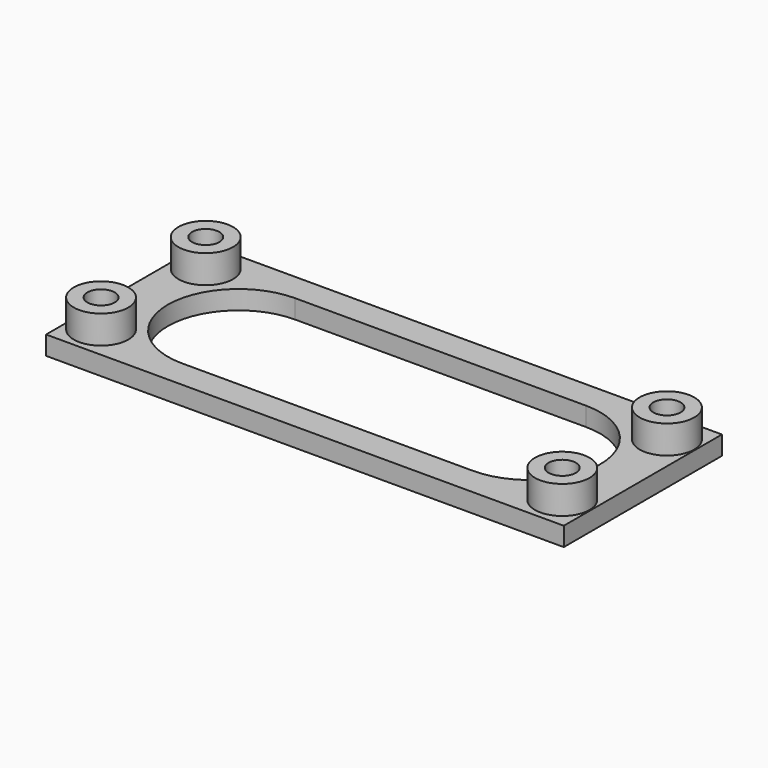
from build123d import *

# Parameters (mm, degrees)
SKETCH_W        = 55
SKETCH_H        = 21
PAD_DEPTH       = 2
SKETCH001_R     = 1.45
POCKET_DEPTH    = 2.001
SKETCH002_R     = 2.9
SKETCH002_R_2   = 1.45
PAD001_DEPTH    = 3
POCKET001_DEPTH = 2.001


with BuildPart() as part:
    # Sketch → Pad (new body)
    with BuildSketch(Plane.XY):
        Rectangle(SKETCH_W, SKETCH_H)
    extrude(amount=PAD_DEPTH)

    # Sketch001 (on Face6 of Pad) → Pocket (cut, through all)
    with BuildSketch(Plane.XY.offset(2)):
        with Locations((-24.5, 6.95)):
            Circle(SKETCH001_R)
        with Locations((24.5, 6.95)):
            Circle(SKETCH001_R)
        with Locations((24.5, -6.95)):
            Circle(SKETCH001_R)
        with Locations((-24.5, -6.95)):
            Circle(SKETCH001_R)
    extrude(amount=-POCKET_DEPTH, mode=Mode.SUBTRACT)

    # Sketch002 (on Face5 of Pocket) → Pad001 (join)
    with BuildSketch(Plane.XY.offset(2)):
        with Locations((-24.5, 6.95)):
            Circle(SKETCH002_R)
        with Locations((-24.5, 6.95)):
            Circle(SKETCH002_R_2, mode=Mode.SUBTRACT)
        with Locations((24.5, 6.95)):
            Circle(SKETCH002_R)
        with Locations((24.5, 6.95)):
            Circle(SKETCH002_R_2, mode=Mode.SUBTRACT)
        with Locations((24.5, -6.95)):
            Circle(SKETCH002_R)
        with Locations((24.5, -6.95)):
            Circle(SKETCH002_R_2, mode=Mode.SUBTRACT)
        with Locations((-24.5, -6.95)):
            Circle(SKETCH002_R)
        with Locations((-24.5, -6.95)):
            Circle(SKETCH002_R_2, mode=Mode.SUBTRACT)
    extrude(amount=PAD001_DEPTH)

    # Sketch003 (on Face5 of Pad001) → Pocket001 (cut, through all)
    with BuildSketch(Plane.XY.offset(2)):
        with BuildLine():
            ThreePointArc((-15.459811, 7.5), (-22.959811, 0), (-15.459811, -7.5))
            Line((-15.459811, -7.5), (15.459811, -7.5))
            ThreePointArc((15.459811, -7.5), (22.959811, 0), (15.459811, 7.5))
            Line((15.459811, 7.5), (-15.459811, 7.5))
        make_face()
    extrude(amount=-POCKET001_DEPTH, mode=Mode.SUBTRACT)


solid = part.part
